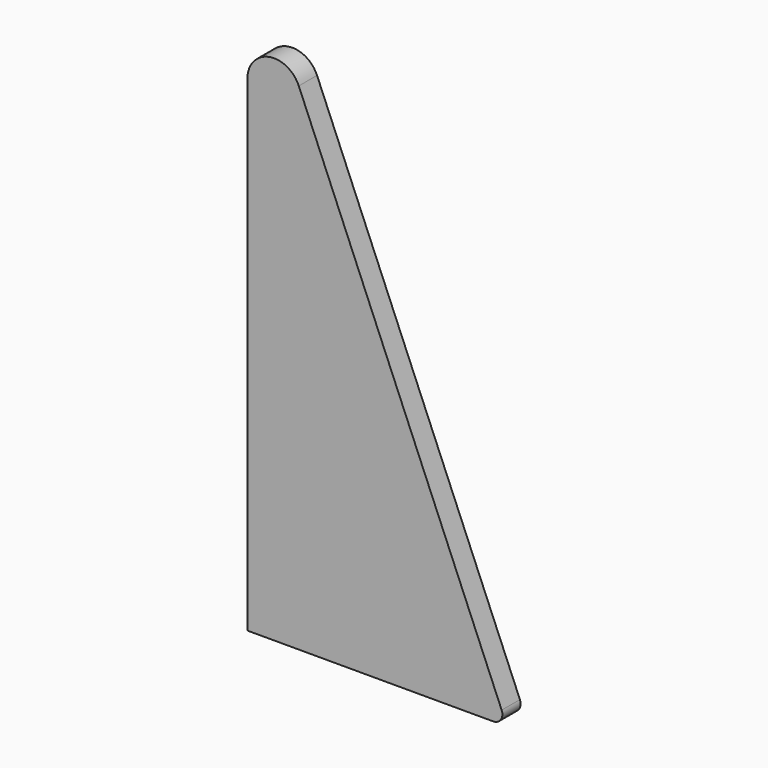
from build123d import *

# Parameters (mm, degrees)
F1_DEPTH = 6.4


with BuildPart() as f1:
    # F0 (on Front) → F1 (new body)
    with BuildSketch(Plane.XZ):
        with BuildLine():
            Line((-16.502138, -6.174103), (-16.502138, -142.426595))
            Line((-16.502138, -142.426595), (52.442669, -142.426595))
            ThreePointArc((52.442669, -142.426595), (54.579188, -141.281454), (54.808498, -138.868266))
            Line((54.808498, -138.868266), (-2.086261, -3.272268))
            ThreePointArc((-2.086261, -3.272268), (-10.482159, 1.178416), (-16.502138, -6.174103))
        make_face()
    extrude(amount=-F1_DEPTH)


solid = f1.part
